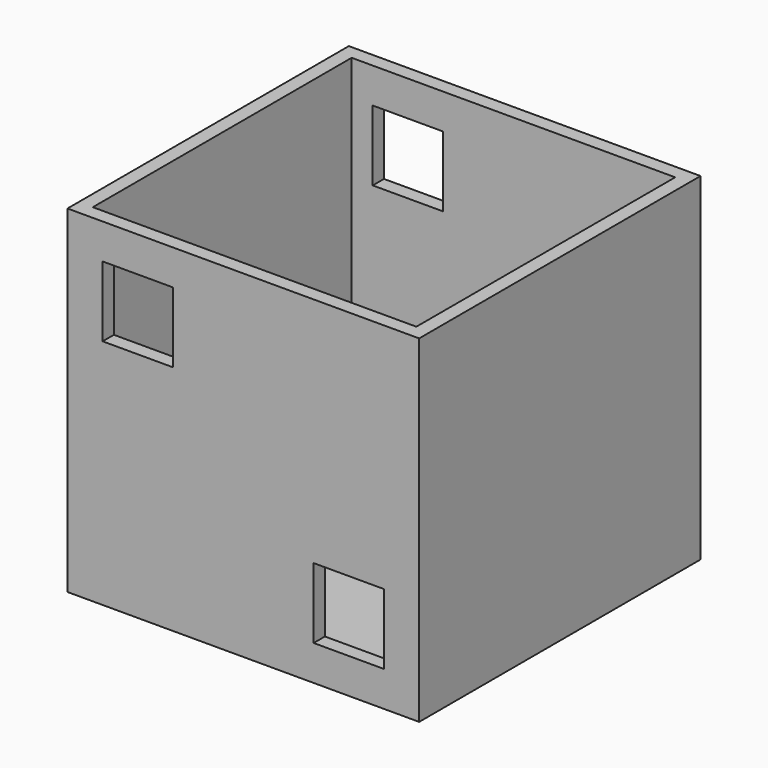
from build123d import *

# Parameters (mm, degrees)
F0_W     = 50
F0_H     = 50
F1_DEPTH = 48
F2_T     = -2
F3_W     = 10
F3_H     = 10
F5_DEPTH = 2
F4_W     = 10
F4_H     = 10
F6_DEPTH = 2


with BuildPart() as f1:
    # F0 (on Top) → F1 (new body)
    with BuildSketch(Plane.XY):
        with Locations((-1.763418, 5.553549)):
            Rectangle(F0_W, F0_H)
    extrude(amount=F1_DEPTH)

    # F2
    f2_openings = [f1.faces().sort_by_distance(p)[0] for p in [
        (-1.763418, 5.553549, 48),
    ]]
    offset(amount=F2_T, openings=f2_openings)

    # F3 (on face) → F5 (cut)
    with BuildSketch(Plane.XZ.offset(19.446451)):
        with Locations((-16.763418, 38)):
            Rectangle(F3_W, F3_H)
        with Locations((13.236582, 10)):
            Rectangle(F3_W, F3_H)
    extrude(amount=-F5_DEPTH, mode=Mode.SUBTRACT)

    # F4 (on face) → F6 (cut)
    with BuildSketch(Plane(origin=(0, 30.553549, 0), x_dir=(-1, 0, 0), z_dir=(0, 1, 0))):
        with Locations((16.763418, 38)):
            Rectangle(F4_W, F4_H)
        with Locations((-13.236582, 10)):
            Rectangle(F4_W, F4_H)
    extrude(amount=-F6_DEPTH, mode=Mode.SUBTRACT)


solid = f1.part
